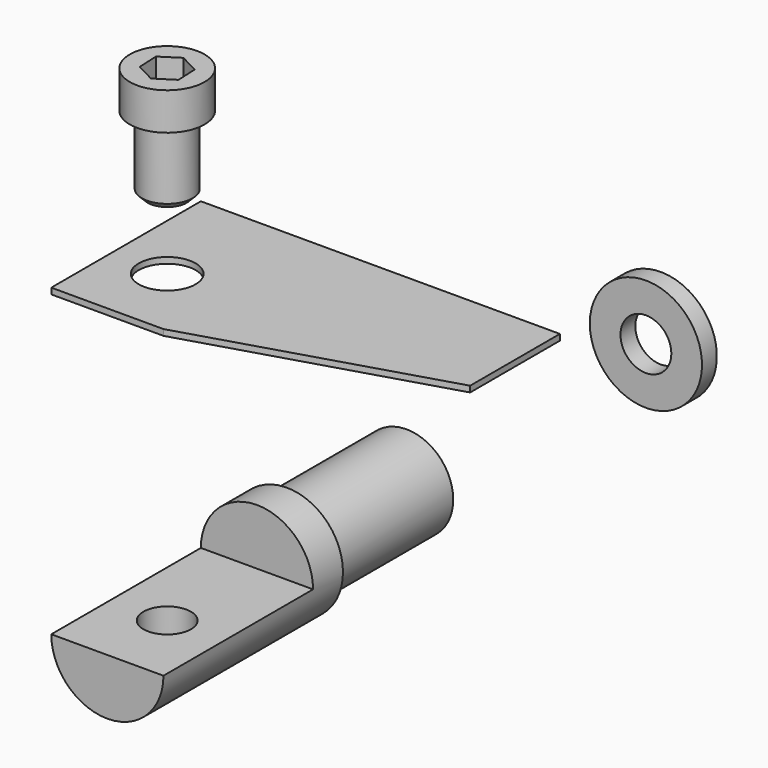
from build123d import *

# Parameters (mm, degrees)
F0_R      = 3.9624
F1_DEPTH  = 12.7
F2_R      = 4.7625
F2_R_2    = 3.9624
F3_DEPTH  = 19.05
F5_D      = 3.4544
F5_DEPTH  = 12.7
F5_TIP    = 1.0378064612
F7_DEPTH  = 15.875
F9_D      = 4.0386
F11_R     = 2.413
F12_DEPTH = 0.508
F14_R     = 4.7625
F15_DEPTH = 1.5748
F17_D     = 4.318
F19_R     = 3.175
F20_DEPTH = 3.175
F22_DEPTH = 2.54
F23_R     = 2.159
F24_DEPTH = 6.35
F25_SIZE  = 0.508


with BuildPart() as f1:
    # F0 (on Front) → F1 (new body)
    with BuildSketch(Plane.XZ):
        Circle(F0_R)
    extrude(amount=F1_DEPTH)

    # F2 (on face) → F3 (join)
    with BuildSketch(Plane.XZ.offset(12.7)):
        Circle(F2_R)
        Circle(F2_R_2, mode=Mode.SUBTRACT)
        Circle(F2_R_2)
    extrude(amount=F3_DEPTH)

    # F5
    with Locations(Plane(origin=(0, 0, 0), x_dir=(1, 0, 0), z_dir=(0, 1, 0))):
        with Locations((0, 0)):
            Hole(F5_D / 2, depth=F5_DEPTH)
            with Locations((0, 0, -(F5_DEPTH + F5_TIP / 2))):  # 118° drill point
                Cone(0, F5_D / 2, F5_TIP, mode=Mode.SUBTRACT)

    # F6 (on face) → F7 (cut)
    with BuildSketch(Plane.XZ.offset(31.75)):
        with BuildLine():
            Line((-4.7625, 0), (4.7625, 0))
            ThreePointArc((4.7625, 0), (0, 4.7625), (-4.7625, 0))
        make_face()
    extrude(amount=-F7_DEPTH, mode=Mode.SUBTRACT)

    # F9 (through all)
    with Locations(Plane.XY):
        with Locations((0, -25.4)):
            Hole(F9_D / 2)


with BuildPart() as f12:
    # F11 (on offset) → F12 (new body)
    with BuildSketch(Plane.XY.offset(25.4)):
        Polygon((25.7175, -15.875), (-4.7625, -15.875), (-4.7625, -31.75), (4.7625, -31.75), (25.7175, -25.4), align=None)
        with Locations((0, -25.4)):
            Circle(F11_R, mode=Mode.SUBTRACT)
    extrude(amount=F12_DEPTH)


with BuildPart() as f15:
    # F14 (on offset) → F15 (new body)
    with BuildSketch(Plane(origin=(0, 25.4, 0), x_dir=(-1, 0, 0), z_dir=(0, 1, 0))):
        Circle(F14_R)
    extrude(amount=F15_DEPTH)

    # F17 (through all)
    with Locations(Plane(origin=(0, 26.9748, 0), x_dir=(-1, 0, 0), z_dir=(0, 1, 0))):
        with Locations((0, 0)):
            Hole(F17_D / 2)


with BuildPart() as f20:
    # F19 (on offset) → F20 (new body)
    with BuildSketch(Plane.XY.offset(38.1)):
        with Locations((0, -25.4)):
            Circle(F19_R)
    extrude(amount=F20_DEPTH)

    # F21 (on face) → F22 (cut)
    with BuildSketch(Plane.XY.offset(41.275)):
        Polygon((-1.5431975512, -26.3893177707), (0.0851755462, -27.2311071677), (1.6283730974, -26.241789397), (1.5431975512, -24.4106822293), (-0.0851755462, -23.5688928323), (-1.6283730974, -24.558210603), align=None)
    extrude(amount=-F22_DEPTH, mode=Mode.SUBTRACT)

    # F23 (on face) → F24 (join)
    with BuildSketch(Plane(origin=(0, 0, 38.1), x_dir=(1, 0, 0), z_dir=(0, 0, -1))):
        with Locations((0, 25.4)):
            Circle(F23_R)
    extrude(amount=F24_DEPTH)

    # F25
    f25_edges = [f20.edges().sort_by_distance(p)[0] for p in [
        (-2.159, -25.4, 31.75),
    ]]
    chamfer(f25_edges, length=F25_SIZE)


solid = Compound([f1.part, f12.part, f15.part, f20.part])
